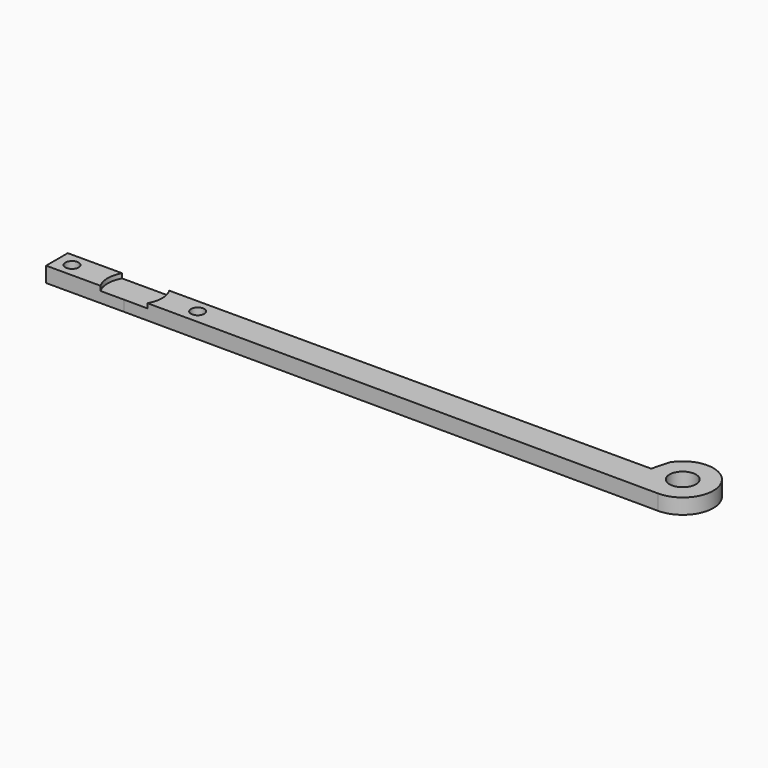
from build123d import *

# Parameters (mm, degrees)
F0_R     = 1.1049
F0_R_2   = 2.1971
F1_DEPTH = 2.54
F3_DEPTH = 0.762


with BuildPart() as f1:
    # F0 (on Top) → F1 (new body)
    with BuildSketch(Plane.XY):
        with BuildLine():
            Line((74.3450840463, 9.7124146023), (-4.8932405656, 9.7124146023))
            Line((-4.8932405656, 9.7124146023), (-15.3309644214, 9.7124146023))
            Line((-15.3309644214, 9.7124146023), (-17.8187767892, 9.7124146023))
            Line((-17.8187767892, 9.7124146023), (-17.8187767892, 7.7587923859))
            Line((-17.8187767892, 7.7587923859), (-17.8187767892, 6.9155367665))
            Line((-17.8187767892, 6.9155367665), (-17.8187767892, 5.2187923859))
            Line((-17.8187767892, 5.2187923859), (-15.2787767892, 5.2187923859))
            Line((-15.2787767892, 5.2187923859), (-4.8932405656, 5.2187923859))
            Line((-4.8932405656, 5.2187923859), (83.9806633272, 4.8342025108))
            ThreePointArc((83.9806633272, 4.8342025108), (88.4353067828, 12.3560361832), (79.6981836468, 12.6467412181))
            Line((79.6981836468, 12.6467412181), (78.9046726219, 9.7124146023))
            Line((78.9046726219, 9.7124146023), (74.3450840463, 9.7124146023))
        make_face()
        with Locations((-15.3072405656, 7.4656034941)):
            Circle(F0_R, mode=Mode.SUBTRACT)
        with Locations((5.5207594344, 7.4656034941)):
            Circle(F0_R, mode=Mode.SUBTRACT)
        with Locations((83.9806633272, 9.9142025108)):
            Circle(F0_R_2, mode=Mode.SUBTRACT)
    extrude(amount=F1_DEPTH)

    # F2 (on face) → F3 (cut)
    with BuildSketch(Plane.XY.offset(2.54)):
        with BuildLine():
            ThreePointArc((-0.994226721, 5.2019199275), (-0.5397777962, 6.2934541154), (-0.3847405656, 7.4656034941))
            ThreePointArc((-0.3847405656, 7.4656034941), (-0.5372549737, 8.6283424044), (-0.9844796245, 9.7124146023))
            Line((-0.9844796245, 9.7124146023), (-8.8020015066, 9.7124146023))
            ThreePointArc((-8.8020015066, 9.7124146023), (-9.4017405656, 7.4656034941), (-8.8020015066, 5.2187923859))
            Line((-8.8020015066, 5.2187923859), (-4.8932405656, 5.2187923859))
            Line((-4.8932405656, 5.2187923859), (-0.994226721, 5.2019199275))
        make_face()
    extrude(amount=-F3_DEPTH, mode=Mode.SUBTRACT)


solid = f1.part
